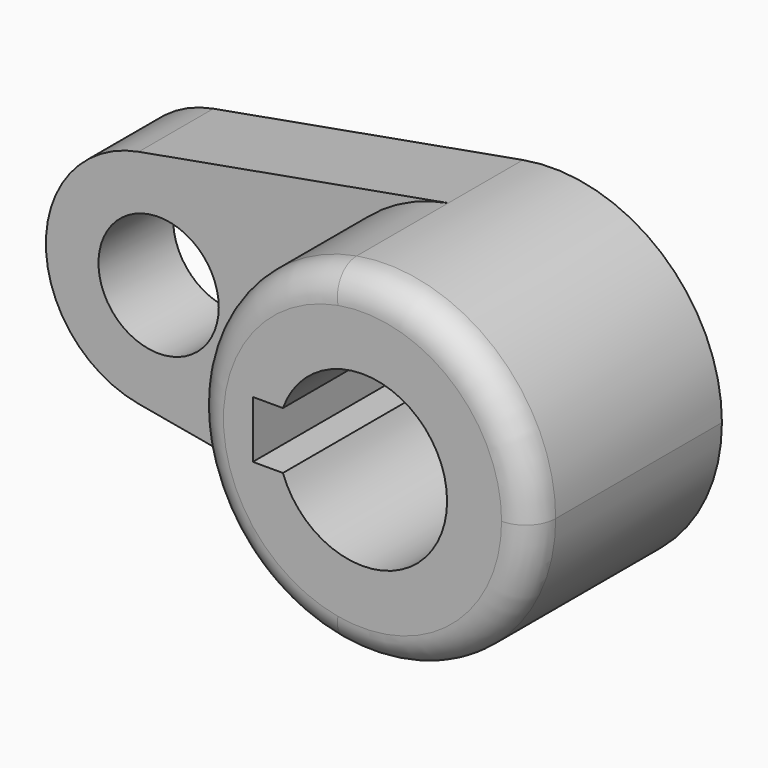
from build123d import *

# Parameters (mm, degrees)
F1_DEPTH = 40.1828
F2_DEPTH = 15.7734
F0_R     = 10.16
F3_DEPTH = 15.7734
F4_R     = 5.08


with BuildPart() as f1:
    # F0 (on Front) → F1 (new body)
    with BuildSketch(Plane.XZ):
        with BuildLine():
            ThreePointArc((-5.042647, -28.126541), (18.336262, -21.916025), (28.575, 0))
            ThreePointArc((28.575, 0), (18.336262, 21.916025), (-5.042647, 28.126541))
            ThreePointArc((-5.042647, 28.126541), (-28.575, 0), (-5.042647, -28.126541))
        make_face()
        with BuildLine():
            ThreePointArc((-13.447765, 4.826), (2.449257, 14.076001), (14.2875, 0))
            ThreePointArc((14.2875, 0), (2.449257, -14.076001), (-13.447765, -4.826))
            Line((-13.447765, -4.826), (-18.5293, -4.826))
            Line((-18.5293, -4.826), (-18.5293, 4.826))
            Line((-18.5293, 4.826), (-13.447765, 4.826))
        make_face(mode=Mode.SUBTRACT)
    extrude(amount=F1_DEPTH)

    # F0 (on Front) → F2 (join)
    with BuildSketch(Plane.XZ):
        with BuildLine():
            ThreePointArc((-5.042647, -28.126541), (-28.575, 0), (-5.042647, 28.126541))
            Line((-5.042647, 28.126541), (-57.336765, 18.751028))
            ThreePointArc((-57.336765, 18.751028), (-41.750826, 14.610683), (-34.925, 0))
            ThreePointArc((-34.925, 0), (-41.750826, -14.610683), (-57.336765, -18.751028))
            Line((-57.336765, -18.751028), (-5.042647, -28.126541))
        make_face()
    extrude(amount=F2_DEPTH)

    # F0 (on Front) → F3 (join)
    with BuildSketch(Plane.XZ):
        with BuildLine():
            ThreePointArc((-34.925, 0), (-41.750826, 14.610683), (-57.336765, 18.751028))
            ThreePointArc((-57.336765, 18.751028), (-73.025, 0), (-57.336765, -18.751028))
            ThreePointArc((-57.336765, -18.751028), (-41.750826, -14.610683), (-34.925, 0))
        make_face()
        with Locations((-53.975, 0)):
            Circle(F0_R, mode=Mode.SUBTRACT)
    extrude(amount=F3_DEPTH)

    # F4
    f4_edges = [f1.edges().sort_by_distance(p)[0] for p in [
        (-28.575, -40.1828, 0),
    ]]
    fillet(f4_edges, radius=F4_R)


solid = f1.part
